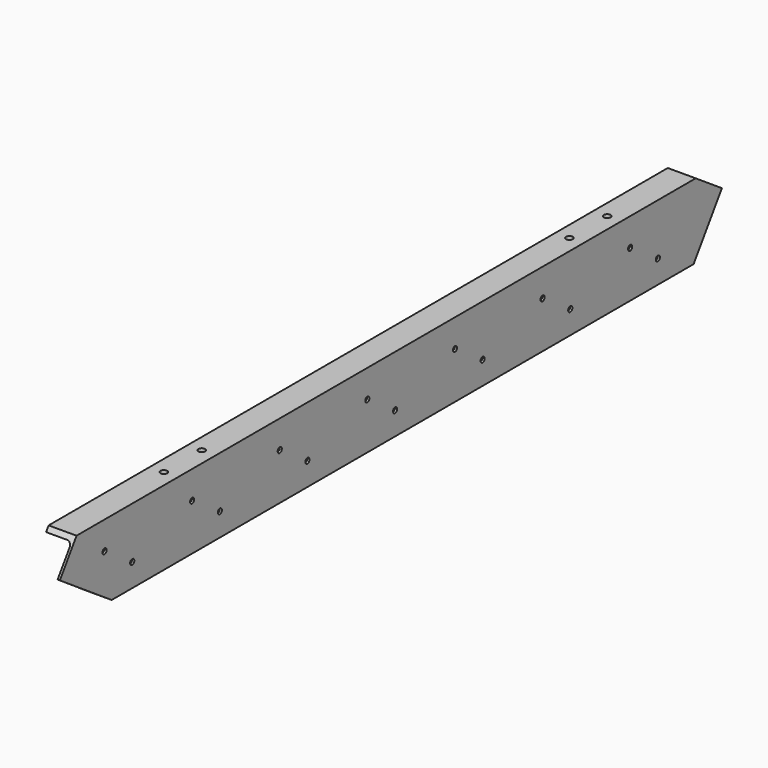
from build123d import *

# Parameters (mm, degrees)
F1_DEPTH = 2222
F2_R     = 7
F3_DEPTH = 75.001
F4_R     = 9
F5_DEPTH = 25


with BuildPart() as f1:
    # F0 (on Front) → F1 (new body)
    with BuildSketch(Plane.XZ):
        with BuildLine():
            Line((75, 0), (0, 0))
            Line((0, 0), (0, -12.5))
            Line((0, -12.5), (57, -12.5))
            ThreePointArc((57, -12.5), (65.485281, -16.014719), (69, -24.5))
            Line((69, -24.5), (69, -175.5))
            ThreePointArc((69, -175.5), (65.485281, -183.985281), (57, -187.5))
            Line((57, -187.5), (0, -187.5))
            Line((0, -187.5), (0, -200))
            Line((0, -200), (75, -200))
            Line((75, -200), (75, 0))
        make_face()
    extrude(amount=-F1_DEPTH)

    # F2 (on face) → F3 (cut, through all)
    with BuildSketch(Plane.YZ.offset(75)):
        Polygon((174, -200), (0, -83), (0, -200), align=None)
        Polygon((56, 0), (0, 0), (0, -83), align=None)
        Polygon((2222, -59), (2127, -200), (2222, -200), align=None)
        Polygon((2134, 0), (2222, -59), (2222, 0), align=None)
        with Locations((444, -75)):
            Circle(F2_R)
        with Locations((537, -138)):
            Circle(F2_R)
        with Locations((243, -138)):
            Circle(F2_R)
        with Locations((150, -75)):
            Circle(F2_R)
        with Locations((738, -75)):
            Circle(F2_R)
        with Locations((831, -138)):
            Circle(F2_R)
        with Locations((1032, -75)):
            Circle(F2_R)
        with Locations((1125, -138)):
            Circle(F2_R)
        with Locations((1326, -75)):
            Circle(F2_R)
        with Locations((1419, -138)):
            Circle(F2_R)
        with Locations((1620, -75)):
            Circle(F2_R)
        with Locations((1713, -138)):
            Circle(F2_R)
        with Locations((2007, -138)):
            Circle(F2_R)
        with Locations((1914, -75)):
            Circle(F2_R)
    extrude(amount=-F3_DEPTH, mode=Mode.SUBTRACT)

    # F4 (on face) → F5 (cut)
    with BuildSketch(Plane.XY):
        with Locations((37.5, 523)):
            Circle(F4_R)
        with Locations((37.5, 396)):
            Circle(F4_R)
        with Locations((37.5, 1757)):
            Circle(F4_R)
        with Locations((37.5, 1884)):
            Circle(F4_R)
    extrude(amount=-F5_DEPTH, mode=Mode.SUBTRACT)


solid = f1.part
